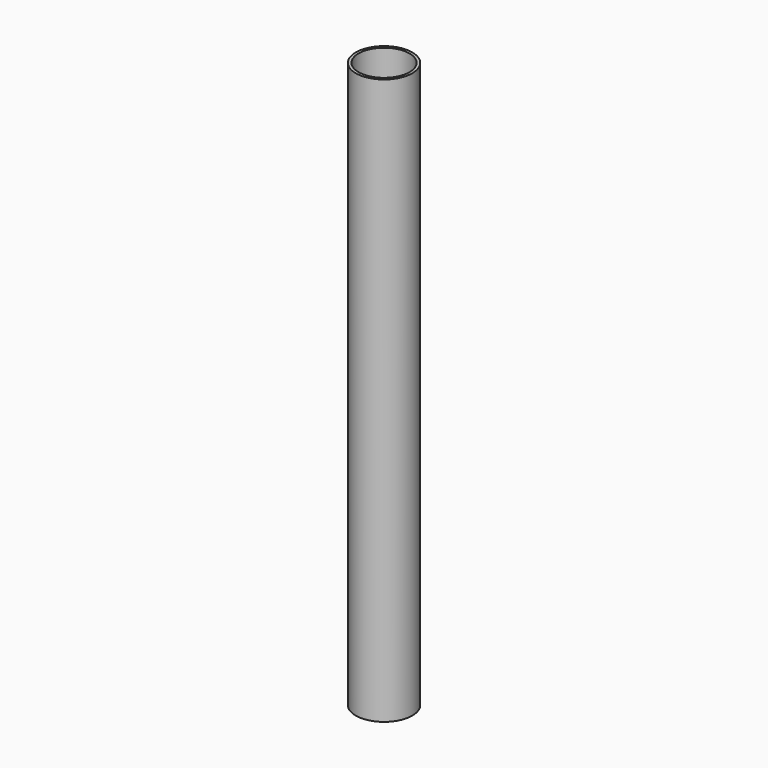
from build123d import *

# Parameters (mm, degrees)
F0_R     = 30
F0_R_2   = 27
F1_DEPTH = 600
F2_R     = 20
F3_DEPTH = 50


with BuildPart() as f1:
    # F0 (on Top) → F1 (new body)
    with BuildSketch(Plane.XY):
        Circle(F0_R)
        Circle(F0_R_2, mode=Mode.SUBTRACT)
    extrude(amount=F1_DEPTH)

    # F2 (on Right) → F3 (cut)
    with BuildSketch(Plane.YZ):
        with Locations((0, 450)):
            Circle(F2_R)
        with Locations((0, 150)):
            Circle(F2_R)
    extrude(amount=-F3_DEPTH, mode=Mode.SUBTRACT)


solid = f1.part
